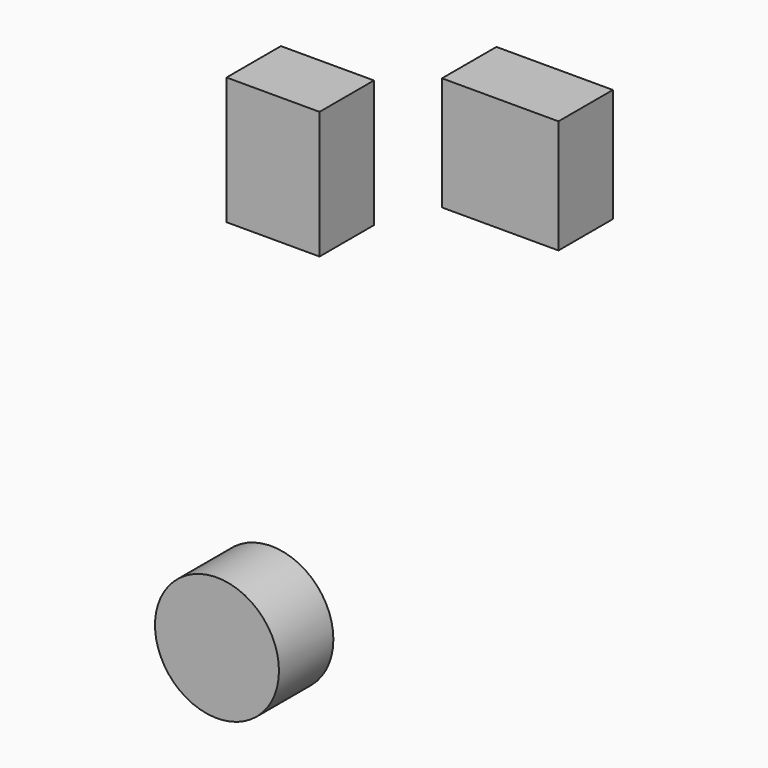
from build123d import *

# Parameters (mm, degrees)
F0_W     = 34.191712
F0_H     = 46.82366
F0_W_2   = 42.812705
F0_H_2   = 41.792248
F1_DEPTH = 25
F2_R     = 22.781451
F3_DEPTH = 25


with BuildPart() as f1:
    # F0 (on Front) → F1 (new body)
    with BuildSketch(Plane.XZ):
        with Locations((-104.913041, 36.782573)):
            Rectangle(F0_W, F0_H)
        with Locations((-21.406353, 64.790381)):
            Rectangle(F0_W_2, F0_H_2)
    extrude(amount=F1_DEPTH)


with BuildPart() as f3:
    # F2 (on Front) → F3 (new body)
    with BuildSketch(Plane.XZ):
        with Locations((-125.515729, -125.511646)):
            Circle(F2_R)
    extrude(amount=F3_DEPTH)


solid = Compound([f1.part, f3.part])
